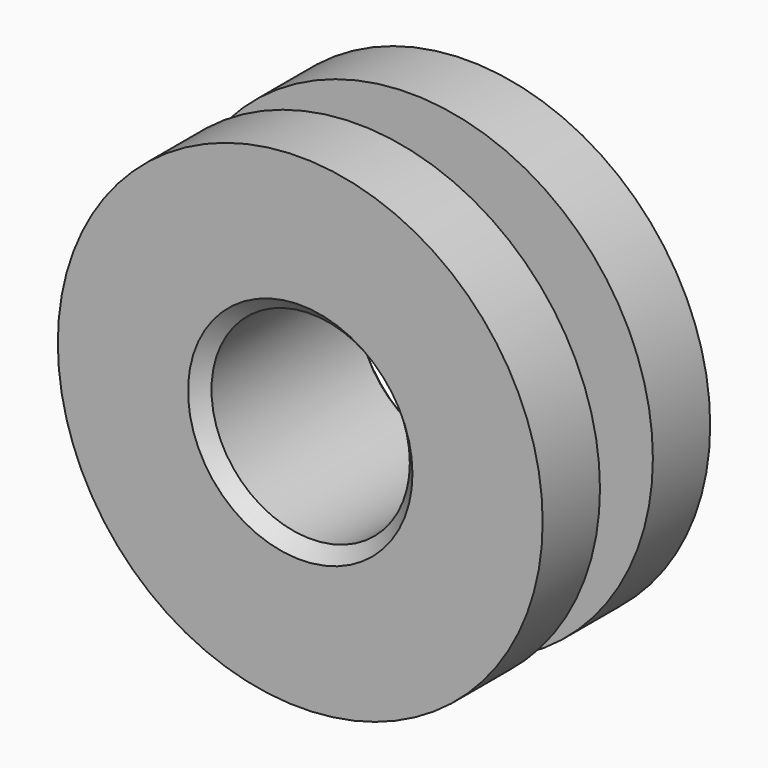
from build123d import *

# Parameters (mm, degrees)
F0_R     = 5.588
F0_R_2   = 3.937
F0_R_3   = 2.286
F1_DEPTH = 2.413
F2_DEPTH = 0.762
F3_SIZE  = 0.3


with BuildPart() as f1:
    # F0 (on Front) → F1 (new body, symmetric)
    with BuildSketch(Plane.XZ):
        Circle(F0_R)
        Circle(F0_R_2, mode=Mode.SUBTRACT)
        Circle(F0_R_2)
        Circle(F0_R_3, mode=Mode.SUBTRACT)
    extrude(amount=F1_DEPTH, both=True)

    # F0 (on Front) → F2 (cut, symmetric)
    with BuildSketch(Plane.XZ):
        Circle(F0_R)
        Circle(F0_R_2, mode=Mode.SUBTRACT)
    extrude(amount=F2_DEPTH, both=True, mode=Mode.SUBTRACT)

    # F3
    f3_edges = [f1.edges().sort_by_distance(p)[0] for p in [
        (-2.286, -2.413, 0),
        (-2.286, 2.413, 0),
    ]]
    chamfer(f3_edges, length=F3_SIZE)


solid = f1.part
